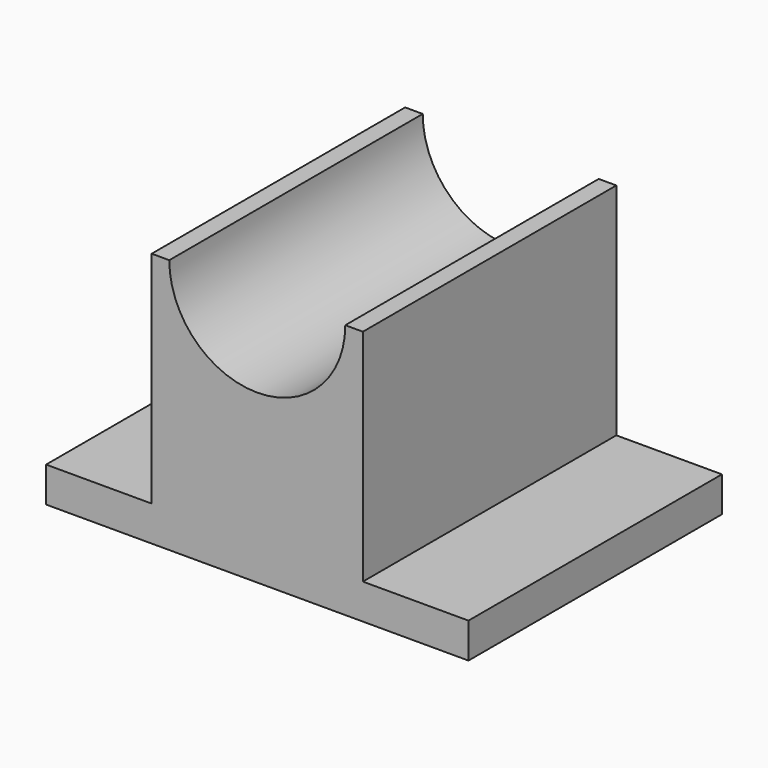
from build123d import *

# Parameters (mm, degrees)
F1_DEPTH = 114.3


with BuildPart() as f1:
    # F0 (on Front) → F1 (new body)
    with BuildSketch(Plane.XZ):
        with BuildLine():
            Line((-97.579116, -53.147433), (-97.579116, -65.847433))
            Line((-97.579116, -65.847433), (-21.379116, -65.847433))
            Line((-21.379116, -65.847433), (54.820884, -65.847433))
            Line((54.820884, -65.847433), (54.820884, -53.147433))
            Line((54.820884, -53.147433), (16.720884, -53.147433))
            Line((16.720884, -53.147433), (16.720884, 26.227567))
            Line((16.720884, 26.227567), (10.370884, 26.227567))
            ThreePointArc((10.370884, 26.227567), (-21.379116, -5.522433), (-53.129116, 26.227567))
            Line((-53.129116, 26.227567), (-59.479116, 26.227567))
            Line((-59.479116, 26.227567), (-59.479116, -53.147433))
            Line((-59.479116, -53.147433), (-97.579116, -53.147433))
        make_face()
    extrude(amount=F1_DEPTH)


solid = f1.part
